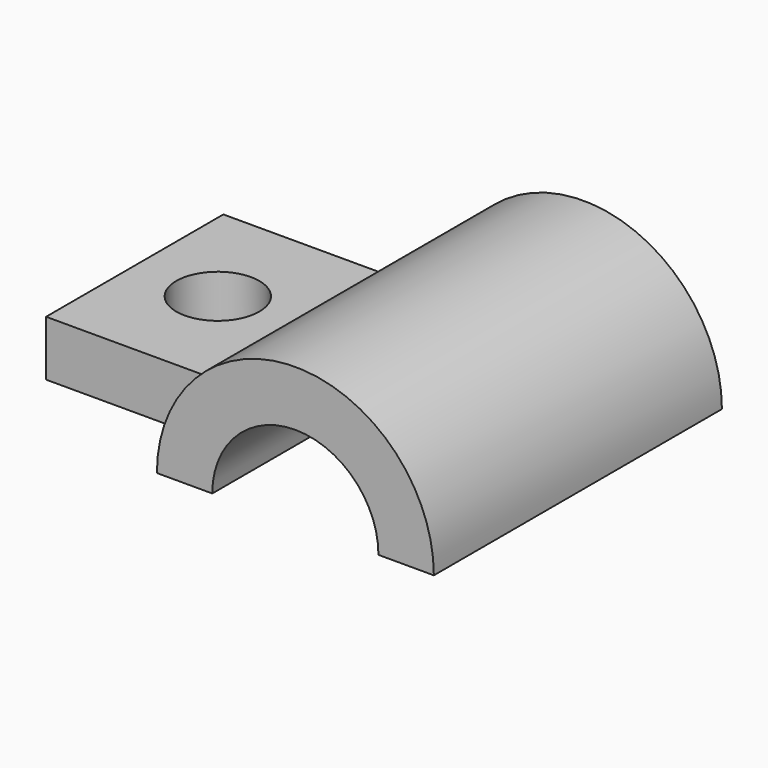
from build123d import *

# Parameters (mm, degrees)
F1_DEPTH = 6.5
F2_W     = 8
F2_H     = 8
F3_DEPTH = 2
F4_R     = 1.5
F5_DEPTH = 25


with BuildPart() as f1:
    # F0 (on Front) → F1 (new body, symmetric)
    with BuildSketch(Plane.XZ):
        with BuildLine():
            Line((3, 0), (5, 0))
            ThreePointArc((5, 0), (0, 5), (-5, 0))
            Line((-5, 0), (-3, 0))
            ThreePointArc((-3, 0), (0, 3), (3, 0))
        make_face()
    extrude(amount=F1_DEPTH, both=True)

    # F2 (on Top) → F3 (join)
    with BuildSketch(Plane.XY):
        with Locations((-7, 0)):
            Rectangle(F2_W, F2_H)
    extrude(amount=F3_DEPTH)

    # F4 (on face) → F5 (cut)
    with BuildSketch(Plane.XY.offset(2)):
        with Locations((-8, 0)):
            Circle(F4_R)
    extrude(amount=-F5_DEPTH, mode=Mode.SUBTRACT)


solid = f1.part
